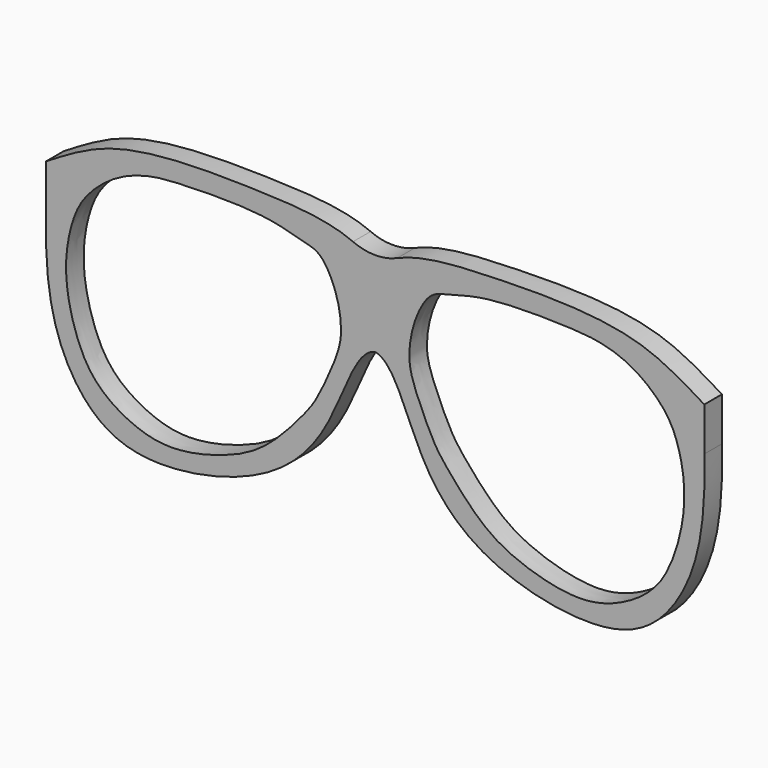
from build123d import *

# Parameters (mm, degrees)
F1_DEPTH = 5.08
F3_R     = 12.7


with BuildPart() as f1:
    # F0 (on Front) → F1 (new body)
    with BuildSketch(Plane.XZ):
        with BuildLine():
            add(Edge.make_bspline(
                [(-7.3731576873, 51.9832396724), (-4.0851358587, 55.1148181156), (4.7117132057, 57.94577563), (18.7639795294, 58.5447864615), (34.7452381784, 58.9707054953), (54.4463415885, 57.2798887012), (63.8753412951, 51.403727631), (68.490443635, 48.6045764901)],
                knots=[0, 0, 0, 0, 0.1829365485, 0.3712831074, 0.574427967, 0.7965301834, 1, 1, 1, 1], degree=3))
            Line((-7.3731576873, 51.9832396724), (-7.3731576873, 34.5995091283))
            add(Edge.make_bspline(
                [(68.490443635, 38.5574616907), (68.6682371239, 31.1054952183), (68.123696336, 18.7001772104), (61.5277760421, 3.6596317013), (48.4838257688, -6.4485862548), (19.7891841599, -1.9773520495), (2.4656386817, 13.3639374309), (-2.8890134452, 33.7901812799), (-7.3731576873, 34.5995091283)],
                knots=[0, 0, 0, 0, 0.1664134929, 0.3118583086, 0.4547667938, 0.6462041984, 0.8294985866, 1, 1, 1, 1], degree=3))
            Line((68.490443635, 38.5574616907), (68.490443635, 48.6045764901))
        make_face()
        with BuildLine():
            add(Edge.make_bspline(
                [(0.501827438, 36.3730046686), (0.4824657403, 38.464435156), (1.1971841307, 43.478248188), (4.8192625045, 50.682742757), (9.5245518915, 51.6487538518), (18.6402726713, 54.5018918945), (36.5879470765, 54.2118000423), (44.357081869, 53.6621279617), (52.2524627929, 51.1676217825), (59.6534716096, 44.9241139368), (62.8600348837, 38.1438513213), (64.6683319838, 27.4670835636), (61.8300161514, 15.0364662746), (57.049197164, 6.5476896963), (48.4488563523, 1.3430012563), (41.147764587, -0.3957930966), (33.8920553071, 0.3533959439), (26.2740586832, 2.5080866435), (17.4238105439, 6.6759000992), (8.4359940009, 17.1915865293), (5.7535092859, 21.1045348188), (1.2463694894, 30.8896909392), (0.5189961384, 34.5184594649), (0.501827438, 36.3730046686)],
                knots=[0, 0, 0, 0, 0.0432244259, 0.0873703435, 0.1204510825, 0.1702831082, 0.2387390965, 0.2842337815, 0.3295069985, 0.3787948228, 0.4224084112, 0.4748403785, 0.5322069516, 0.5821102065, 0.6320865873, 0.6759349889, 0.7187799241, 0.7635400281, 0.8147286806, 0.8732870883, 0.9101888677, 0.9616713765, 1, 1, 1, 1], degree=3))
        make_face(mode=Mode.SUBTRACT)
    extrude(amount=F1_DEPTH)

    # F2: F1 across face


with BuildPart() as f1_1:
    add(f1.part)
    add(f1.part.mirror(Plane(origin=(-7.3731576873, -2.54, 43.2913744004), x_dir=(0, -1, 0), z_dir=(-1, 0, 0))))

    # F3
    f3_edges = [f1_1.edges().sort_by_distance(p)[0] for p in [
        (-7.373158, -2.54, 51.98324),
    ]]
    fillet(f3_edges, radius=F3_R)


solid = f1_1.part
